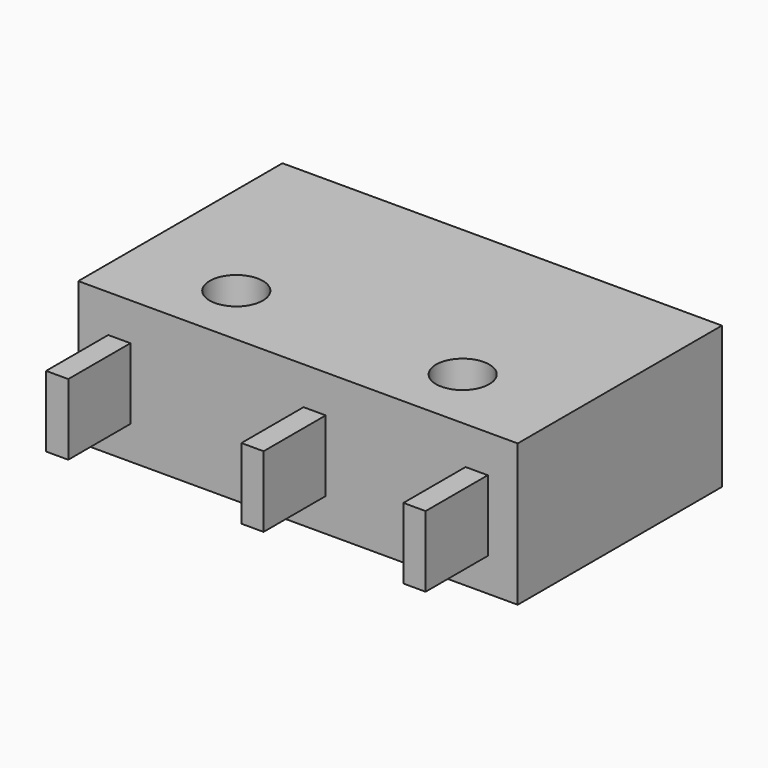
from build123d import *

# Parameters (mm, degrees)
SKETCH_W     = 19.8
SKETCH_H     = 11.5
PAD_DEPTH    = 6.4
SKETCH001_R  = 1.2
POCKET_DEPTH = 6.401
SKETCH002_W  = 1
SKETCH002_H  = 3.2
PAD001_DEPTH = 3.5


with BuildPart() as part:
    # Sketch → Pad (new body)
    with BuildSketch(Plane.XY):
        with Locations((9.9, 5.75)):
            Rectangle(SKETCH_W, SKETCH_H)
    extrude(amount=PAD_DEPTH)

    # Sketch001 → Pocket (cut, through all)
    with BuildSketch(Plane.XY.offset(6.4)):
        with Locations((4.8, 2.9)):
            Circle(SKETCH001_R)
        with Locations((15, 2.9)):
            Circle(SKETCH001_R)
    extrude(amount=-POCKET_DEPTH, mode=Mode.SUBTRACT)

    # Sketch002 → Pad001 (new body)
    with BuildSketch(Plane.XZ):
        with Locations((1.85, 3.1)):
            Rectangle(SKETCH002_W, SKETCH002_H)
        with Locations((10.65, 3.1)):
            Rectangle(SKETCH002_W, SKETCH002_H)
        with Locations((17.95, 3.1)):
            Rectangle(SKETCH002_W, SKETCH002_H)
    extrude(amount=PAD001_DEPTH)


solid = part.part
